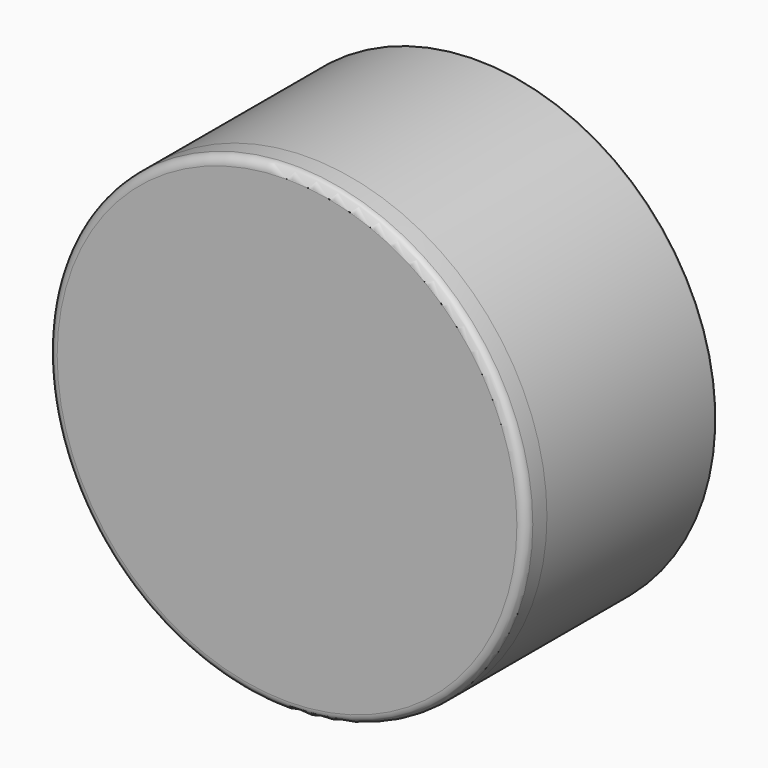
from build123d import *

# Parameters (mm, degrees)
F0_R     = 27
F1_DEPTH = 3
F2_R     = 27
F2_R_2   = 24
F3_DEPTH = 24
F4_R     = 1
F5_R     = 0.3


with BuildPart() as f1:
    # F0 (on Front) → F1 (new body)
    with BuildSketch(Plane.XZ):
        Circle(F0_R)
    extrude(amount=F1_DEPTH)

    # F2 (on face) → F3 (join)
    with BuildSketch(Plane(origin=(0, 0, 0), x_dir=(-1, 0, 0), z_dir=(0, 1, 0))):
        Circle(F2_R)
        Circle(F2_R_2, mode=Mode.SUBTRACT)
    extrude(amount=F3_DEPTH)

    # F4
    f4_edges = [f1.edges().sort_by_distance(p)[0] for p in [
        (-27, -3, 0),
    ]]
    fillet(f4_edges, radius=F4_R)

    # F5
    f5_edges = [f1.edges().sort_by_distance(p)[0] for p in [
        (27, 24, 0),
        (24, 24, 0),
    ]]
    fillet(f5_edges, radius=F5_R)


solid = f1.part
